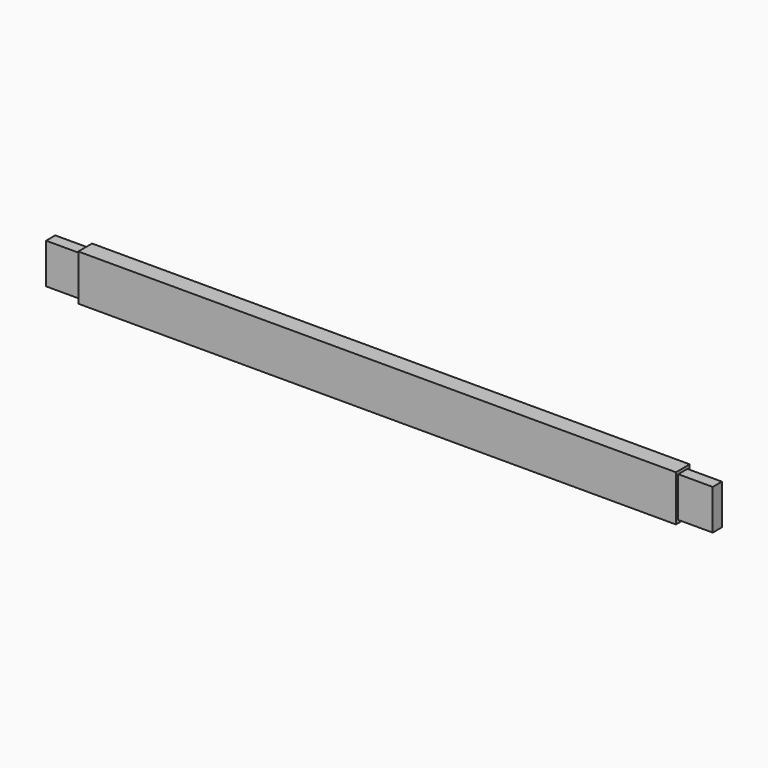
from build123d import *

# Parameters (mm, degrees)
F0_W     = 660.4
F0_H     = 50.8
F1_DEPTH = 9.525
F2_W     = 12.7
F2_H     = 44.45
F3_W     = 12.7
F3_H     = 44.45
F4_DEPTH = 38.1
F5_DEPTH = 38.1


with BuildPart() as f1:
    # F0 (on Front) → F1 (new body, symmetric)
    with BuildSketch(Plane.XZ):
        Rectangle(F0_W, F0_H)
    extrude(amount=F1_DEPTH, both=True)

    # F2 (on face) + F3 (on face) → F4 (join)
    with BuildSketch(Plane(origin=(-330.2, 0, 0), x_dir=(0, -1, 0), z_dir=(-1, 0, 0))):
        Rectangle(F2_W, F2_H)
    with BuildSketch(Plane.YZ.offset(330.2)):
        Rectangle(F3_W, F3_H)
    extrude(amount=F4_DEPTH)

    # F3 (on face) → F5 (join)
    with BuildSketch(Plane.YZ.offset(330.2)):
        Rectangle(F3_W, F3_H)
    extrude(amount=F5_DEPTH)


solid = f1.part
